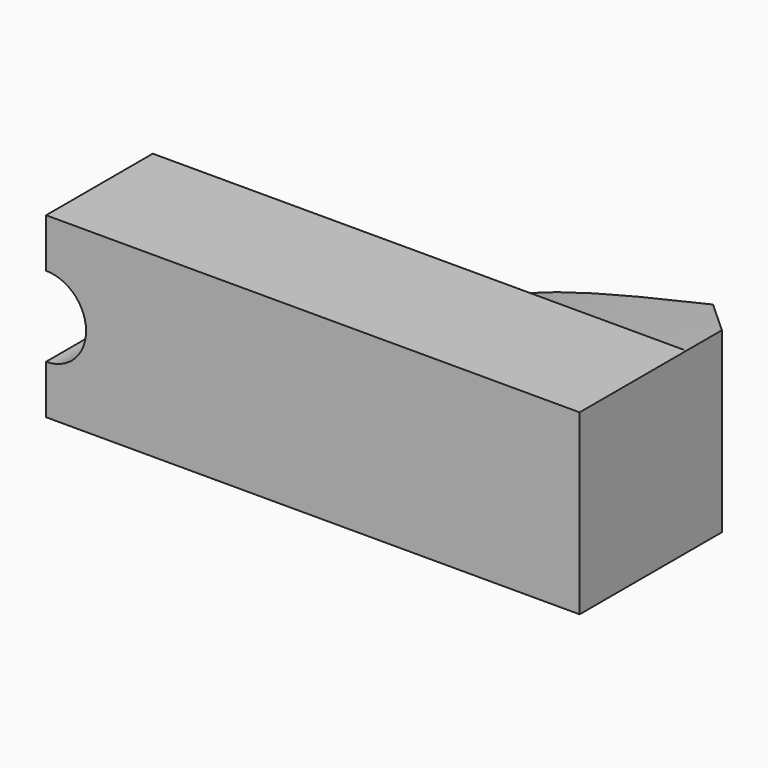
from build123d import *

# Parameters (mm, degrees)
F1_DEPTH = 19.05
F3_DEPTH = 12.7
F4_SIZE  = 6.35


with BuildPart() as f1:
    # F0 (on Front) → F1 (new body)
    with BuildSketch(Plane.XZ):
        with BuildLine():
            Line((38.1, -12.7), (38.1, 12.7))
            Line((38.1, 12.7), (-38.1, 12.7))
            Line((-38.1, 12.7), (-38.1, 5.715))
            ThreePointArc((-38.1, 5.715), (-34.0588847455, 4.0411152545), (-32.385, 0))
            ThreePointArc((-32.385, 0), (-34.0588847455, -4.0411152545), (-38.1, -5.715))
            Line((-38.1, -5.715), (-38.1, -12.7))
            Line((-38.1, -12.7), (38.1, -12.7))
        make_face()
    extrude(amount=F1_DEPTH)

    # F2 (on face) → F3 (join)
    with BuildSketch(Plane(origin=(0, 0, 0), x_dir=(-1, 0, 0), z_dir=(0, 1, 0))):
        with BuildLine():
            add(Edge.make_bspline(
                [(-38.1, 12.7), (-19.05, 8.4666666667), (15.2730799035, 0.839315577), (-12.2449852881, -6.7880355127), (-26.9177044879, -10.182053269)],
                knots=[0, 0, 0, 0, 0.5, 0.9008682389, 0.9008682389, 0.9008682389, 0.9008682389], degree=3))
            Line((-38.1, 12.7), (-38.1, -12.7))
            add(Edge.make_bspline(
                [(-26.9177044879, -10.182053269), (-30.546159807, -11.021368846), (-34.3230799035, -11.860684423), (-38.1, -12.7)],
                knots=[0.9008682389, 0.9008682389, 0.9008682389, 0.9008682389, 1, 1, 1, 1], degree=3))
        make_face()
    extrude(amount=F3_DEPTH)

    # F4
    f4_edges = [f1.edges().sort_by_distance(p)[0] for p in [
        (38.1, 12.7, 0),
    ]]
    chamfer(f4_edges, length=F4_SIZE)


solid = f1.part
